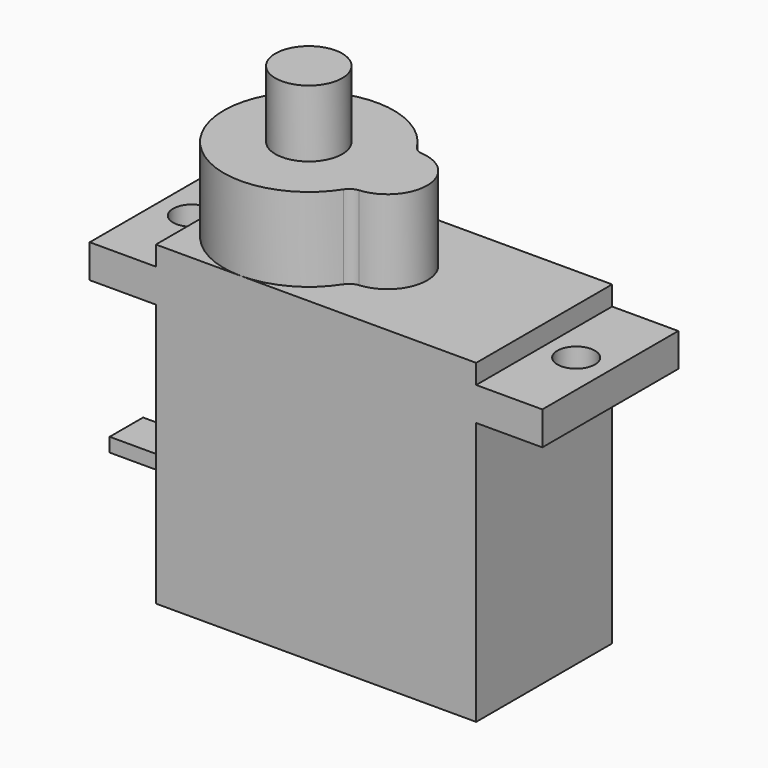
from build123d import *

# Parameters (mm, degrees)
SKETCH013_W  = 32.5
SKETCH013_H  = 12.2
SKETCH013_R  = 1.35
PAD003_DEPTH = 1.2
SKETCH014_W  = 23
SKETCH014_H  = 12.2
PAD001_DEPTH = 1.4
PAD002_DEPTH = 6
SKETCH003_R  = 2.4
PAD005_DEPTH = 4.8
SKETCH016_W  = 23
SKETCH016_H  = 12.2
PAD004_DEPTH = 18.9
SKETCH012_W  = 3
SKETCH012_H  = 1
PAD008_DEPTH = 7


with BuildPart() as part:
    # Sketch013 → Pad003 (new body, symmetric)
    with BuildSketch(Plane.XY):
        Rectangle(SKETCH013_W, SKETCH013_H)
        with Locations((-13.8, 0)):
            Circle(SKETCH013_R, mode=Mode.SUBTRACT)
        with Locations((13.8, 0)):
            Circle(SKETCH013_R, mode=Mode.SUBTRACT)
    extrude(amount=PAD003_DEPTH, both=True)

    # Sketch014 → Pad001 (join)
    with BuildSketch(Plane.XY.offset(1.2)):
        Rectangle(SKETCH014_W, SKETCH014_H)
    extrude(amount=PAD001_DEPTH)

    # Sketch015 → Pad002 (join)
    with BuildSketch(Plane.XY.offset(2.6)):
        with BuildLine():
            ThreePointArc((-0.26712, 3.295988), (-11.5, 0), (-0.26712, -3.295988))
            ThreePointArc((0.490093, -2.839869), (0.058351, -2.979717), (-0.26712, -3.295988))
            ThreePointArc((0.490093, -2.839869), (3.1, 0), (0.490093, 2.839869))
            ThreePointArc((-0.26712, 3.295988), (0.058351, 2.979717), (0.490093, 2.839869))
        make_face()
    extrude(amount=PAD002_DEPTH)

    # Sketch003 → Pad005 (join)
    with BuildSketch(Plane.XY.offset(8.6)):
        with Locations((-5.4, 0)):
            Circle(SKETCH003_R)
    extrude(amount=PAD005_DEPTH)

    # Sketch016 → Pad004 (join)
    with BuildSketch(Plane(origin=(0, 0, -1.2), x_dir=(1, 0, 0), z_dir=(0, 0, -1))):
        Rectangle(SKETCH016_W, SKETCH016_H)
    extrude(amount=PAD004_DEPTH)

    # Sketch012 (on Face11 of Pad004) → Pad008 (join)
    with BuildSketch(Plane(origin=(-11.5, 0, 0), x_dir=(0, -1, 0), z_dir=(-1, 0, 0))):
        with Locations((0, -14.2)):
            Rectangle(SKETCH012_W, SKETCH012_H)
    extrude(amount=PAD008_DEPTH)


solid = part.part
